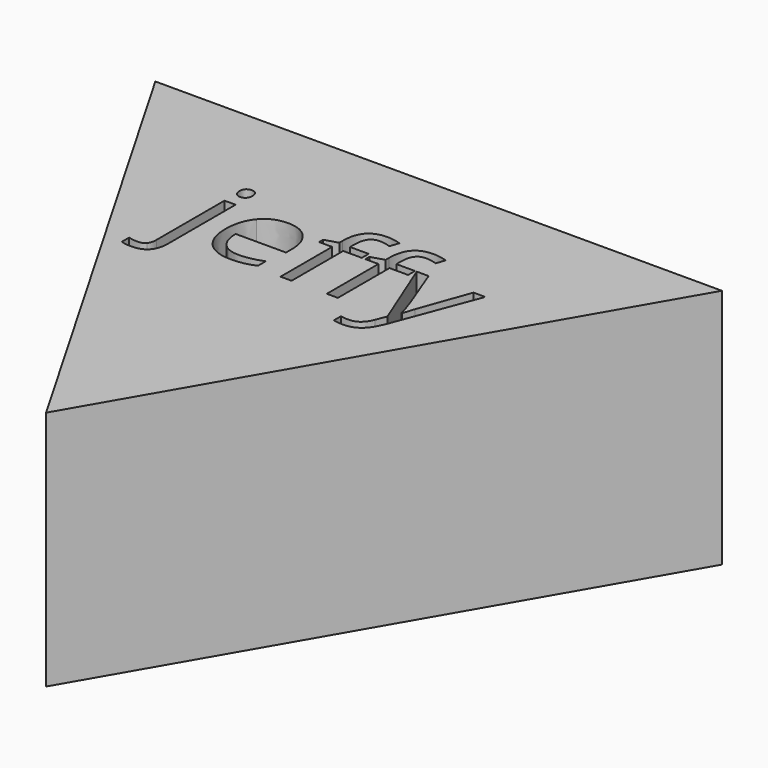
from build123d import *

# Parameters (mm, degrees)
F1_DEPTH = 25.4


with BuildPart() as f1:
    # F0 (on Top) → F1 (new body)
    with BuildSketch(Plane.XY):
        Polygon((29.8450878518, 17.2310695052), (-29.8450878518, 17.2310695052), (0, -34.4621390104), align=None)
        with BuildLine():
            add(Edge.make_bspline(
                [(-10.9711358257, -4.6750637359), (-10.9711358257, -6.9531576902), (-13.0738187944, -6.9531576902)],
                knots=[0, 0, 0, 1, 1, 1], degree=2))
            add(Edge.make_bspline(
                [(-13.0738187944, -6.9531576902), (-13.7417298551, -6.9531576902), (-14.1555198724, -6.7754978458)],
                knots=[0, 0, 0, 1, 1, 1], degree=2))
            Line((-14.1555198724, -6.7754978458), (-14.1555198724, -5.8287282952))
            add(Edge.make_bspline(
                [(-14.1555198724, -5.8287282952), (-13.6697663738, -5.9681575401), (-13.1997548867, -5.9681575401)],
                knots=[0, 0, 0, 1, 1, 1], degree=2))
            add(Edge.make_bspline(
                [(-13.1997548867, -5.9681575401), (-12.6510333419, -5.9681575401), (-12.3946634398, -5.6690593211)],
                knots=[0, 0, 0, 1, 1, 1], degree=2))
            add(Edge.make_bspline(
                [(-12.3946634398, -5.6690593211), (-12.1382935377, -5.369961102), (-12.1382935377, -4.7605203699)],
                knots=[0, 0, 0, 1, 1, 1], degree=2))
            Line((-12.1382935377, -4.7605203699), (-12.1382935377, 4.2079284849))
            Line((-12.1382935377, 4.2079284849), (-10.9711358257, 4.2079284849))
            Line((-10.9711358257, 4.2079284849), (-10.9711358257, -4.6750637359))
        make_face(mode=Mode.SUBTRACT)
        with BuildLine():
            add(Edge.make_bspline(
                [(-3.9119680837, -3.5191503178), (-4.4629384873, -3.6360909749), (-5.2432924874, -3.6360909749)],
                knots=[0, 0, 0, 1, 1, 1], degree=2))
            add(Edge.make_bspline(
                [(-5.2432924874, -3.6360909749), (-6.9501763091, -3.6360909749), (-7.9385497473, -2.5948693551)],
                knots=[0, 0, 0, 1, 1, 1], degree=2))
            add(Edge.make_bspline(
                [(-7.9385497473, -2.5948693551), (-8.9269231856, -1.5536477353), (-8.9269231856, 0.2926653314)],
                knots=[0, 0, 0, 1, 1, 1], degree=2))
            add(Edge.make_bspline(
                [(-8.9269231856, 0.2926653314), (-8.9269231856, 2.1569692683), (-8.0093887992, 3.2532879285)],
                knots=[0, 0, 0, 1, 1, 1], degree=2))
            add(Edge.make_bspline(
                [(-8.0093887992, 3.2532879285), (-7.0918544129, 4.3496065886), (-5.5446395653, 4.3496065886)],
                knots=[0, 0, 0, 1, 1, 1], degree=2))
            add(Edge.make_bspline(
                [(-5.5446395653, 4.3496065886), (-4.0986233633, 4.3496065886), (-3.255301317, 3.397214891)],
                knots=[0, 0, 0, 1, 1, 1], degree=2))
            add(Edge.make_bspline(
                [(-3.255301317, 3.397214891), (-2.4119792708, 2.4448231935), (-2.4119792708, 0.8841151932)],
                knots=[0, 0, 0, 1, 1, 1], degree=2))
            Line((-2.4119792708, 0.8841151932), (-2.4119792708, 0.14648951))
            Line((-2.4119792708, 0.14648951), (-7.7170371565, 0.14648951))
            add(Edge.make_bspline(
                [(-7.7170371565, 0.14648951), (-7.6810554159, -1.2095723404), (-7.0311352255, -1.9123407123)],
                knots=[0, 0, 0, 1, 1, 1], degree=2))
            add(Edge.make_bspline(
                [(-7.0311352255, -1.9123407123), (-6.3812150352, -2.6151090842), (-5.2005641704, -2.6151090842)],
                knots=[0, 0, 0, 1, 1, 1], degree=2))
            add(Edge.make_bspline(
                [(-5.2005641704, -2.6151090842), (-3.9569452595, -2.6151090842), (-2.7425615129, -2.0956227037)],
                knots=[0, 0, 0, 1, 1, 1], degree=2))
            Line((-2.7425615129, -2.0956227037), (-2.7425615129, -3.1368443235))
            add(Edge.make_bspline(
                [(-2.7425615129, -3.1368443235), (-3.3609976802, -3.4022096607), (-3.9119680837, -3.5191503178)],
                knots=[0, 0, 0, 1, 1, 1], degree=2))
        make_face(mode=Mode.SUBTRACT)
        with BuildLine():
            add(Edge.make_bspline(
                [(-12.0404681804, 5.7079172978), (-12.2372433245, 5.9013191538), (-12.2372433245, 6.294869442)],
                knots=[0, 0, 0, 1, 1, 1], degree=2))
            add(Edge.make_bspline(
                [(-12.2372433245, 6.294869442), (-12.2372433245, 6.6951663066), (-12.0404681804, 6.8818215862)],
                knots=[0, 0, 0, 1, 1, 1], degree=2))
            add(Edge.make_bspline(
                [(-12.0404681804, 6.8818215862), (-11.8436930363, 7.0684768658), (-11.546843676, 7.0684768658)],
                knots=[0, 0, 0, 1, 1, 1], degree=2))
            add(Edge.make_bspline(
                [(-11.546843676, 7.0684768658), (-11.2657363272, 7.0684768658), (-11.0622146067, 6.878448298)],
                knots=[0, 0, 0, 1, 1, 1], degree=2))
            add(Edge.make_bspline(
                [(-11.0622146067, 6.878448298), (-10.8586928862, 6.6884197303), (-10.8586928862, 6.294869442)],
                knots=[0, 0, 0, 1, 1, 1], degree=2))
            add(Edge.make_bspline(
                [(-10.8586928862, 6.294869442), (-10.8586928862, 5.9013191538), (-11.0622146067, 5.7079172978)],
                knots=[0, 0, 0, 1, 1, 1], degree=2))
            add(Edge.make_bspline(
                [(-11.0622146067, 5.7079172978), (-11.2657363272, 5.5145154419), (-11.546843676, 5.5145154419)],
                knots=[0, 0, 0, 1, 1, 1], degree=2))
            add(Edge.make_bspline(
                [(-11.546843676, 5.5145154419), (-11.8436930363, 5.5145154419), (-12.0404681804, 5.7079172978)],
                knots=[0, 0, 0, 1, 1, 1], degree=2))
        make_face(mode=Mode.SUBTRACT)
        with BuildLine():
            Line((3.0504987303, 4.2079284849), (3.0504987303, 3.3016383925))
            Line((3.0504987303, 3.3016383925), (1.0894938653, 3.3016383925))
            Line((1.0894938653, 3.3016383925), (1.0894938653, -3.4944128711))
            Line((1.0894938653, -3.4944128711), (-0.0776638467, -3.4944128711))
            Line((-0.0776638467, -3.4944128711), (-0.0776638467, 3.3016383925))
            Line((-0.0776638467, 3.3016383925), (-1.4539654262, 3.3016383925))
            Line((-1.4539654262, 3.3016383925), (-1.4539654262, 3.8278713493))
            Line((-1.4539654262, 3.8278713493), (-0.0776638467, 4.2506568019))
            Line((-0.0776638467, 4.2506568019), (-0.0776638467, 4.677939972))
            add(Edge.make_bspline(
                [(-0.0776638467, 4.677939972), (-0.0776638467, 7.5182486238), (2.4028273987, 7.5182486238)],
                knots=[0, 0, 0, 1, 1, 1], degree=2))
            add(Edge.make_bspline(
                [(2.4028273987, 7.5182486238), (3.0145169896, 7.5182486238), (3.8375993068, 7.2731230157)],
                knots=[0, 0, 0, 1, 1, 1], degree=2))
            Line((3.8375993068, 7.2731230157), (3.5340033701, 6.337597759))
            add(Edge.make_bspline(
                [(3.5340033701, 6.337597759), (2.8593457331, 6.5557370617), (2.3825876696, 6.5557370617)],
                knots=[0, 0, 0, 1, 1, 1], degree=2))
            add(Edge.make_bspline(
                [(2.3825876696, 6.5557370617), (1.7214231853, 6.5557370617), (1.4054585253, 6.1160851682)],
                knots=[0, 0, 0, 1, 1, 1], degree=2))
            add(Edge.make_bspline(
                [(1.4054585253, 6.1160851682), (1.0894938653, 5.6764332748), (1.0894938653, 4.7071751362)],
                knots=[0, 0, 0, 1, 1, 1], degree=2))
            Line((1.0894938653, 4.7071751362), (1.0894938653, 4.2079284849))
            Line((1.0894938653, 4.2079284849), (3.0504987303, 4.2079284849))
        make_face(mode=Mode.SUBTRACT)
        with BuildLine():
            Line((7.9282734459, 4.2079284849), (7.9282734459, 3.3016383925))
            Line((7.9282734459, 3.3016383925), (5.967268581, 3.3016383925))
            Line((5.967268581, 3.3016383925), (5.967268581, -3.4944128711))
            Line((5.967268581, -3.4944128711), (4.8001108689, -3.4944128711))
            Line((4.8001108689, -3.4944128711), (4.8001108689, 3.3016383925))
            Line((4.8001108689, 3.3016383925), (3.4238092894, 3.3016383925))
            Line((3.4238092894, 3.3016383925), (3.4238092894, 3.8278713493))
            Line((3.4238092894, 3.8278713493), (4.8001108689, 4.2506568019))
            Line((4.8001108689, 4.2506568019), (4.8001108689, 4.677939972))
            add(Edge.make_bspline(
                [(4.8001108689, 4.677939972), (4.8001108689, 7.5182486238), (7.2806021144, 7.5182486238)],
                knots=[0, 0, 0, 1, 1, 1], degree=2))
            add(Edge.make_bspline(
                [(7.2806021144, 7.5182486238), (7.8922917052, 7.5182486238), (8.7153740224, 7.2731230157)],
                knots=[0, 0, 0, 1, 1, 1], degree=2))
            Line((8.7153740224, 7.2731230157), (8.4117780858, 6.337597759))
            add(Edge.make_bspline(
                [(8.4117780858, 6.337597759), (7.7371204487, 6.5557370617), (7.2603623852, 6.5557370617)],
                knots=[0, 0, 0, 1, 1, 1], degree=2))
            add(Edge.make_bspline(
                [(7.2603623852, 6.5557370617), (6.599197901, 6.5557370617), (6.283233241, 6.1160851682)],
                knots=[0, 0, 0, 1, 1, 1], degree=2))
            add(Edge.make_bspline(
                [(6.283233241, 6.1160851682), (5.967268581, 5.6764332748), (5.967268581, 4.7071751362)],
                knots=[0, 0, 0, 1, 1, 1], degree=2))
            Line((5.967268581, 4.7071751362), (5.967268581, 4.2079284849))
            Line((5.967268581, 4.2079284849), (7.9282734459, 4.2079284849))
        make_face(mode=Mode.SUBTRACT)
        with BuildLine():
            Line((11.2183538557, -3.5371411881), (8.1104310079, 4.2079284849))
            Line((8.1104310079, 4.2079284849), (9.3630453539, 4.2079284849))
            Line((9.3630453539, 4.2079284849), (11.0496894465, -0.1840927321))
            add(Edge.make_bspline(
                [(11.0496894465, -0.1840927321), (11.6029087088, -1.6885792627), (11.7378402362, -2.3564903233)],
                knots=[0, 0, 0, 1, 1, 1], degree=2))
            Line((11.7378402362, -2.3564903233), (11.794061706, -2.3564903233))
            add(Edge.make_bspline(
                [(11.794061706, -2.3564903233), (11.8840160576, -1.9966729169), (12.1763677003, -1.1286134239)],
                knots=[0, 0, 0, 1, 1, 1], degree=2))
            add(Edge.make_bspline(
                [(12.1763677003, -1.1286134239), (12.468719343, -0.260553931), (14.0856488131, 4.2079284849)],
                knots=[0, 0, 0, 1, 1, 1], degree=2))
            Line((14.0856488131, 4.2079284849), (15.3360143003, 4.2079284849))
            Line((15.3360143003, 4.2079284849), (12.0256941614, -4.5626207964))
            add(Edge.make_bspline(
                [(12.0256941614, -4.5626207964), (11.5331940863, -5.862461177), (10.8765273196, -6.4078094336)],
                knots=[0, 0, 0, 1, 1, 1], degree=2))
            add(Edge.make_bspline(
                [(10.8765273196, -6.4078094336), (10.219860553, -6.9531576902), (9.2640955672, -6.9531576902)],
                knots=[0, 0, 0, 1, 1, 1], degree=2))
            add(Edge.make_bspline(
                [(9.2640955672, -6.9531576902), (8.7288671751, -6.9531576902), (8.2093807946, -6.8317193155)],
                knots=[0, 0, 0, 1, 1, 1], degree=2))
            Line((8.2093807946, -6.8317193155), (8.2093807946, -5.8984429176))
            add(Edge.make_bspline(
                [(8.2093807946, -5.8984429176), (8.5961845065, -5.9816506929), (9.07294257, -5.9816506929)],
                knots=[0, 0, 0, 1, 1, 1], degree=2))
            add(Edge.make_bspline(
                [(9.07294257, -5.9816506929), (10.2760820227, -5.9816506929), (10.7888218268, -4.6323354188)],
                knots=[0, 0, 0, 1, 1, 1], degree=2))
            Line((10.7888218268, -4.6323354188), (11.2183538557, -3.5371411881))
        make_face(mode=Mode.SUBTRACT)
    extrude(amount=F1_DEPTH)


solid = f1.part
